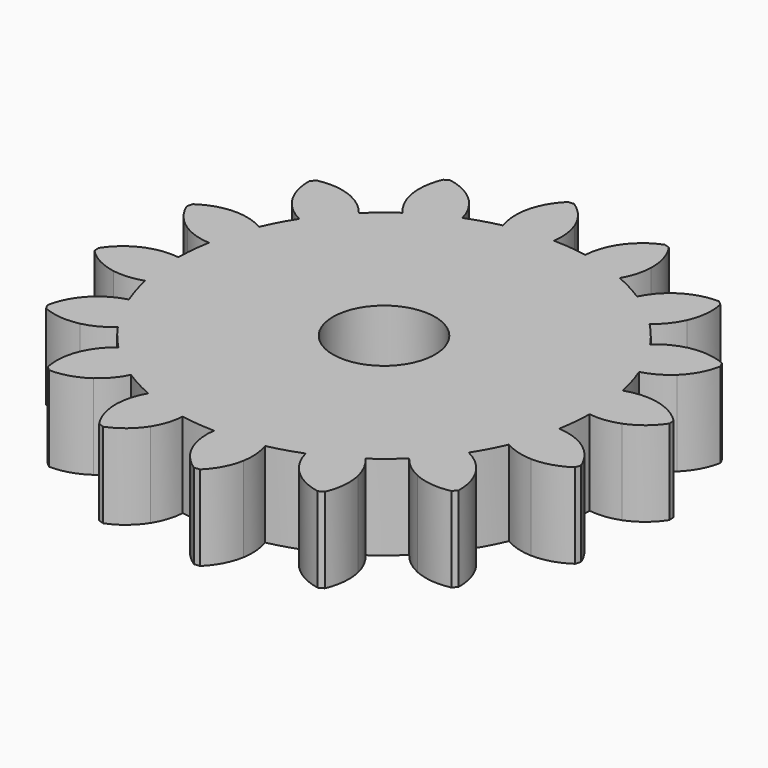
from build123d import *

# Parameters (mm, degrees)
F1_DEPTH = 5
F2_DEPTH = 5
F3_COUNT = 16
F5_D     = 6


with BuildPart() as f1:
    # F0 (on Top) → F1 (new body)
    with BuildSketch(Plane.XY):
        with BuildLine():
            ThreePointArc((-2.5837804825, 11.9744134895), (-7.6945171742, -9.5318888713), (12.25, 0))
            ThreePointArc((12.25, 0), (8.7317956514, 8.59175446), (0.1980416814, 12.2483990583))
            ThreePointArc((0.1980416814, 12.2483990583), (-1.200709969, 12.1910129017), (-2.5837804825, 11.9744134895))
        make_face()
    extrude(amount=F1_DEPTH)

    # F0 (on Top) → F2 (join)
    with BuildSketch(Plane.XY):
        with BuildLine():
            ThreePointArc((-2.5837804825, 11.9744134895), (-1.200709969, 12.1910129017), (0.1980416814, 12.2483990583))
            ThreePointArc((0.1980416814, 12.2483990583), (0.208626449, 13.1365918946), (0, 14))
            ThreePointArc((0, 14), (-0.5553297077, 14.953396215), (-1.3770560583, 15.6896850387))
            Line((-1.3770560583, 15.6896850387), (-1.7103093943, 15.6568624499))
            ThreePointArc((-1.7103093943, 15.6568624499), (-2.3726036798, 14.7744103512), (-2.7312645082, 13.7309939256))
            ThreePointArc((-2.7312645082, 13.7309939256), (-2.7674396932, 12.8434749638), (-2.5837804825, 11.9744134895))
        make_face()
    extrude(amount=F2_DEPTH)

    # F3: F1 ×16 about axis
    f3_axis = Axis((0, 0, 5), (0, 0, -1))


with BuildPart() as f1_1:
    add(f1.part)
    for i in range(1, F3_COUNT):
        add(f1.part.rotate(f3_axis, i * 360 / F3_COUNT))

    # F5 (through all)
    with Locations(Plane(origin=(0, 0, 0), x_dir=(1, 0, 0), z_dir=(0, 0, -1))):
        with Locations((0, 0)):
            Hole(F5_D / 2)


solid = f1_1.part
